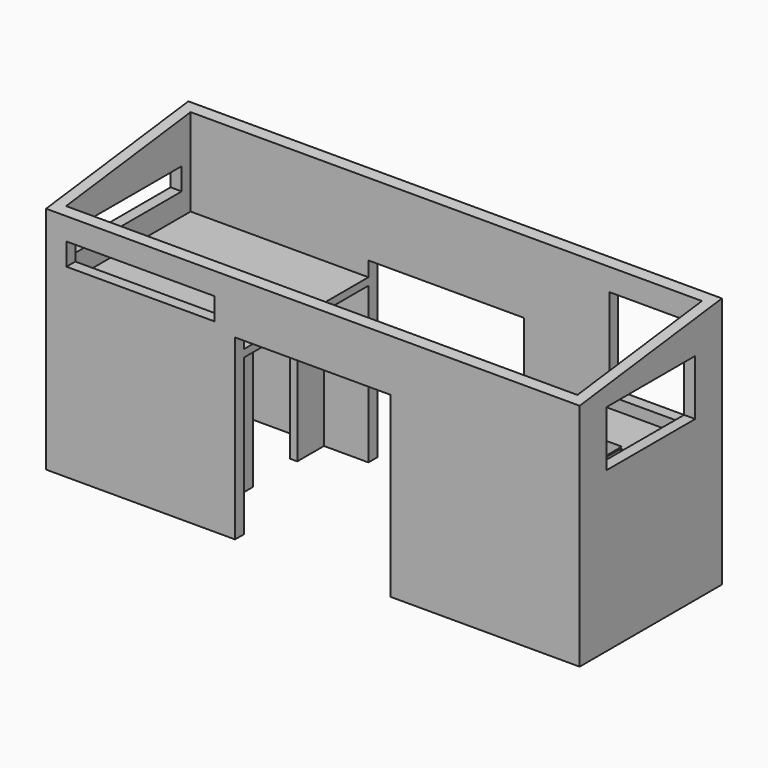
from build123d import *

# Parameters (mm, degrees)
F0_W      = 7315.2
F0_H      = 2438.4
F1_DEPTH  = 3454.4
F2_T      = -152.4
F4_DEPTH  = 7315.2
F5_W      = 2133.6
F5_H      = 2438.4
F6_DEPTH  = 2438.4
F7_W      = 7010.4
F7_H      = 2133.6
F8_DEPTH  = 152.4
F9_W      = 2133.6
F9_H      = 101.6
F10_DEPTH = 2438.4
F12_DEPTH = 2133.6
F13_W     = 1117.6
F13_H     = 1250.95
F14_DEPTH = 152.4
F16_DEPTH = 1219.2
F17_W     = 1524
F17_H     = 762
F18_DEPTH = 152.4
F19_W     = 565.15
F19_H     = 819.15
F20_DEPTH = 228.6
F22_W     = 1828.8
F22_H     = 304.8
F23_DEPTH = 152.4
F24_W     = 101.6
F24_H     = 914.4
F24_H_2   = 457.2
F25_DEPTH = 2133.6
F26_W     = 965.2
F26_H     = 965.2
F27_DEPTH = 152.4
F28_W     = 863.6
F28_H     = 863.6
F29_DEPTH = 76.2
F31_DEPTH = 1828.8
F32_W     = 2032
F32_H     = 304.8
F33_DEPTH = 152.4


with BuildPart() as f1:
    # F0 (on Top) → F1 (new body)
    with BuildSketch(Plane.XY):
        Rectangle(F0_W, F0_H)
    extrude(amount=F1_DEPTH)

    # F2
    f2_openings = [f1.faces().sort_by_distance(p)[0] for p in [
        (0, 0, 3454.4),
    ]]
    offset(amount=F2_T, openings=f2_openings)

    # F3 (on face) → F4 (cut, through all)
    with BuildSketch(Plane(origin=(-3657.6, 0, 0), x_dir=(0, -1, 0), z_dir=(-1, 0, 0))):
        Polygon((1219.2, 3454.4), (-1219.2, 3454.4), (1219.2, 3149.6), align=None)
    extrude(amount=-F4_DEPTH, mode=Mode.SUBTRACT)

    # F5 (on face) → F6 (cut, through all)
    with BuildSketch(Plane(origin=(0, 1219.2, 0), x_dir=(-1, 0, 0), z_dir=(0, 1, 0))):
        with Locations((0, 1219.2)):
            Rectangle(F5_W, F5_H)
    extrude(amount=-F6_DEPTH, mode=Mode.SUBTRACT)

    # F7 (on face) → F8 (cut, through all)
    with BuildSketch(Plane.XY.offset(152.4)):
        Rectangle(F7_W, F7_H)
    extrude(amount=-F8_DEPTH, mode=Mode.SUBTRACT)

    # F9 (on face) → F10 (join)
    with BuildSketch(Plane.YZ.offset(-3505.2)):
        with Locations((0, 2184.4)):
            Rectangle(F9_W, F9_H)
    extrude(amount=F10_DEPTH)

    # F11 (on face) → F12 (join, through all)
    with BuildSketch(Plane(origin=(0, -1066.8, 0), x_dir=(-1, 0, 0), z_dir=(0, 1, 0))):
        Polygon((-1168.4, 0), (-1066.8, 0), (-1066.8, 254), (-1320.8, 254), (-1320.8, 508), (-3657.6, 508), (-3657.6, 406.4), (-1422.4, 406.4), (-1422.4, 152.4), (-1168.4, 152.4), align=None)
    extrude(amount=F12_DEPTH)

    # F13 (on face) → F14 (cut, through all)
    with BuildSketch(Plane.XZ.offset(-1066.8)):
        with Locations((2794, 2505.075)):
            Rectangle(F13_W, F13_H)
    extrude(amount=-F14_DEPTH, mode=Mode.SUBTRACT)

    # F15 (on face) → F16 (join)
    with BuildSketch(Plane.XY.offset(508)):
        Polygon((3505.2, 1066.8), (2082.8, 1066.8), (2082.8, 457.2), (2895.6, 457.2), (2895.6, -457.2), (2082.8, -457.2), (2082.8, -1066.8), (3505.2, -1066.8), align=None)
    extrude(amount=F16_DEPTH)

    # F17 (on face) → F18 (cut, through all)
    with BuildSketch(Plane(origin=(3505.2, 0, 0), x_dir=(0, -1, 0), z_dir=(-1, 0, 0))):
        with Locations((0, 2565.4)):
            Rectangle(F17_W, F17_H)
    extrude(amount=-F18_DEPTH, mode=Mode.SUBTRACT)

    # F19 (on face) → F20 (cut)
    with BuildSketch(Plane.XY.offset(1727.2)):
        with Locations((3200.4, 0)):
            Rectangle(F19_W, F19_H)
    extrude(amount=-F20_DEPTH, mode=Mode.SUBTRACT)

    # F22 (on face) → F23 (cut, through all)
    with BuildSketch(Plane(origin=(-3657.6, 0, 0), x_dir=(0, -1, 0), z_dir=(-1, 0, 0))):
        with Locations((0, 2692.4)):
            Rectangle(F22_W, F22_H)
        with Locations((1.0416096687, 1676.4)):
            Rectangle(F22_W, F22_H)
    extrude(amount=-F23_DEPTH, mode=Mode.SUBTRACT)

    # F24 (on face) → F25 (join, through all)
    with BuildSketch(Plane(origin=(0, 0, 0), x_dir=(1, 0, 0), z_dir=(0, 0, -1))):
        with Locations((-1727.2, 609.6)):
            Rectangle(F24_W, F24_H)
        with Locations((-1727.2, -838.2)):
            Rectangle(F24_W, F24_H_2)
    extrude(amount=-F25_DEPTH)

    # F26 (on face) → F27 (join)
    with BuildSketch(Plane(origin=(0, 0, 0), x_dir=(1, 0, 0), z_dir=(0, 0, -1))):
        with Locations((-3022.6, 584.2)):
            Rectangle(F26_W, F26_H)
    extrude(amount=-F27_DEPTH)

    # F28 (on face) → F29 (cut)
    with BuildSketch(Plane.XY.offset(152.4)):
        with Locations((-3073.4, -635)):
            Rectangle(F28_W, F28_H)
    extrude(amount=-F29_DEPTH, mode=Mode.SUBTRACT)

    # F30 (on face) → F31 (join)
    with BuildSketch(Plane.XY.offset(152.4)):
        Polygon((-2584.45, -146.05), (-3505.2, -146.05), (-3505.2, -158.75), (-2597.15, -158.75), (-2597.15, -1066.8), (-2584.45, -1066.8), align=None)
    extrude(amount=F31_DEPTH)

    # F32 (on face) → F33 (cut, through all)
    with BuildSketch(Plane.XZ.offset(1219.2)):
        with Locations((-2362.2, 2692.4)):
            Rectangle(F32_W, F32_H)
    extrude(amount=-F33_DEPTH, mode=Mode.SUBTRACT)


solid = f1.part
